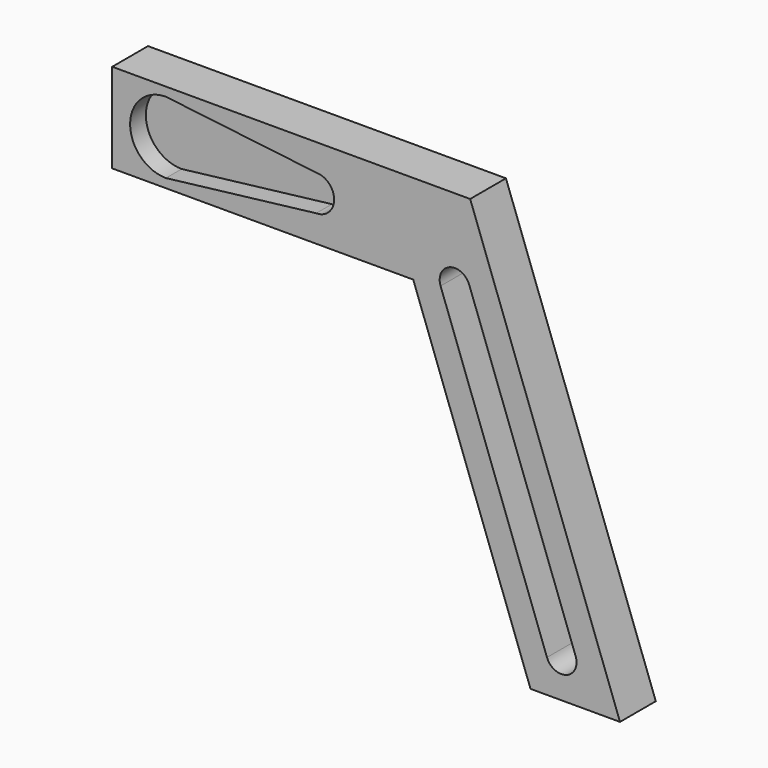
from build123d import *

# Parameters (mm, degrees)
PAD_DEPTH       = 5
POCKET_DEPTH    = 5.001
POCKET001_DEPTH = 2.2


with BuildPart() as part:
    # Sketch → Pad (new body)
    with BuildSketch(Plane.XZ):
        Polygon((0, 0), (-13.102928, 36), (-46.742631, 36), (-46.742631, 46), (-6.742631, 46), (10, 0), align=None)
    extrude(amount=PAD_DEPTH)

    # Sketch001 (on Face8 of Pad) → Pocket (cut, through all)
    with BuildSketch(Plane.XZ.offset(5)):
        with BuildLine():
            ThreePointArc((-6.847488, 37.529023), (-9.029841, 38.546671), (-10.047488, 36.364318))
            Line((-10.047488, 36.364318), (1.843949, 3.692864))
            ThreePointArc((1.843949, 3.692864), (4.026301, 2.675216), (5.043949, 4.857568))
            Line((5.043949, 4.857568), (-6.847488, 37.529023))
        make_face()
    extrude(amount=-POCKET_DEPTH, mode=Mode.SUBTRACT)

    # Sketch002 (on Face5 of Pocket) → Pocket001 (cut)
    with BuildSketch(Plane.XZ.offset(5)):
        with BuildLine():
            Line((-40.742631, 45), (-23.942631, 43))
            ThreePointArc((-23.942631, 39), (-21.942631, 41), (-23.942631, 43))
            Line((-40.742631, 37), (-23.942631, 39))
            ThreePointArc((-40.742631, 45), (-44.742631, 41), (-40.742631, 37))
        make_face()
    extrude(amount=-POCKET001_DEPTH, mode=Mode.SUBTRACT)


solid = part.part
